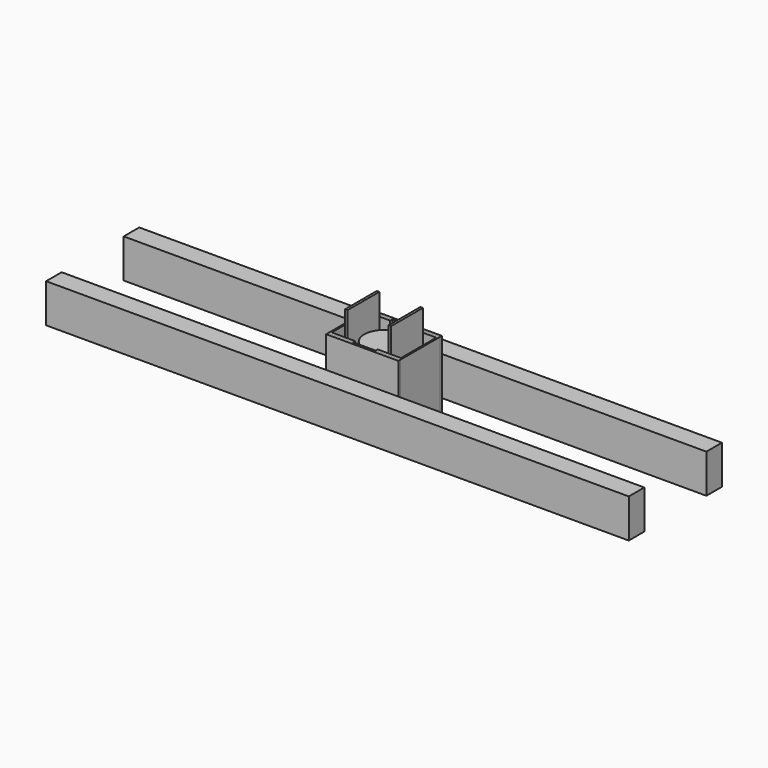
from build123d import *

# Parameters (mm, degrees)
F0_R      = 44.45
F1_DEPTH  = 101.6
F2_R      = 50.8
F2_R_2    = 44.45
F3_DEPTH  = 63.5
F4_DEPTH  = 101.6
F7_DEPTH  = 180
F0_W      = 6.35
F0_H      = 101.6
F8_DEPTH  = 240
F9_DEPTH  = 180
F10_W     = 50
F10_H     = 100
F11_DEPTH = 750


with BuildPart() as f1:
    # F0 (on Top) → F1 (new body)
    with BuildSketch(Plane.XY):
        Circle(F0_R)
    extrude(amount=F1_DEPTH)

    # F2 (on face) → F3 (join)
    with BuildSketch(Plane.XY.offset(101.6)):
        Circle(F2_R)
        Circle(F2_R_2, mode=Mode.SUBTRACT)
        Circle(F2_R_2)
    extrude(amount=F3_DEPTH)


with BuildPart() as f4:
    # F0 (on Top) → F4 (new body, through all)
    with BuildSketch(Plane.XY):
        Polygon((52.8, -50.8), (52.8, 50.8), (16.2152014673, 50.8), (16.2152014673, 50.0381626189), (-17.7847985327, 50.0381626189), (-17.7847985327, 50.8), (-52.8, 50.8), (-52.8, -50.8), align=None)
        Circle(F0_R, mode=Mode.SUBTRACT)
    extrude(amount=F4_DEPTH)


with BuildPart() as f7:
    # F0 (on Top) → F7 (new body)
    with BuildSketch(Plane.XY):
        Polygon((-29.46, 56.896), (-29.46, 63.5), (-92.96, 63.5), (-92.96, 0), (-92.96, -63.5), (-29.46, -63.5), (-29.46, -56.896), (-89.15, -56.896), (-89.15, 0), (-89.15, 56.896), align=None)
    extrude(amount=F7_DEPTH)


with BuildPart() as f7b:
    # F0 (on Top) → F7, piece 2 (new body)
    with BuildSketch(Plane.XY):
        Polygon((89.15, 56.896), (89.15, 0), (89.15, -56.896), (29.46, -56.896), (29.46, -63.5), (92.96, -63.5), (92.96, 0), (92.96, 63.5), (29.46, 63.5), (29.46, 56.896), align=None)
    extrude(amount=F7_DEPTH)


with BuildPart() as f8:
    # F0 (on Top) → F8 (new body)
    with BuildSketch(Plane.XY):
        with Locations((-55.975, 0)):
            Rectangle(F0_W, F0_H)
    extrude(amount=F8_DEPTH)


with BuildPart() as f8b:
    # F0 (on Top) → F8, piece 2 (new body)
    with BuildSketch(Plane.XY):
        with Locations((55.975, 0)):
            Rectangle(F0_W, F0_H)
    extrude(amount=F8_DEPTH)


with BuildPart() as f9:
    # F0 (on Top) → F9 (new body, through all)
    with BuildSketch(Plane.XY):
        Polygon((-29.46, 63.5), (29.46, 63.5), (92.96, 63.5), (92.96, 69.85), (-92.96, 69.85), (-92.96, 63.5), align=None)
    extrude(amount=F9_DEPTH)


with BuildPart() as f9b:
    # F0 (on Top) → F9, piece 2 (new body, through all)
    with BuildSketch(Plane.XY):
        Polygon((92.96, -63.5), (29.46, -63.5), (-29.46, -63.5), (-92.96, -63.5), (-92.96, -69.85), (92.96, -69.85), align=None)
    extrude(amount=F9_DEPTH)


with BuildPart() as f11:
    # F10 (on Right) → F11 (new body, symmetric)
    with BuildSketch(Plane.YZ):
        with Locations((-124.85, 69)):
            Rectangle(F10_W, F10_H)
    extrude(amount=F11_DEPTH, both=True)


with BuildPart() as f11b:
    # F10 (on Right) → F11, piece 2 (new body, symmetric)
    with BuildSketch(Plane.YZ):
        with Locations((124.85, 69)):
            Rectangle(F10_W, F10_H)
    extrude(amount=F11_DEPTH, both=True)


solid = Compound([f1.part, f4.part, f7.part, f7b.part, f8.part, f8b.part, f9.part, f9b.part, f11.part, f11b.part])
